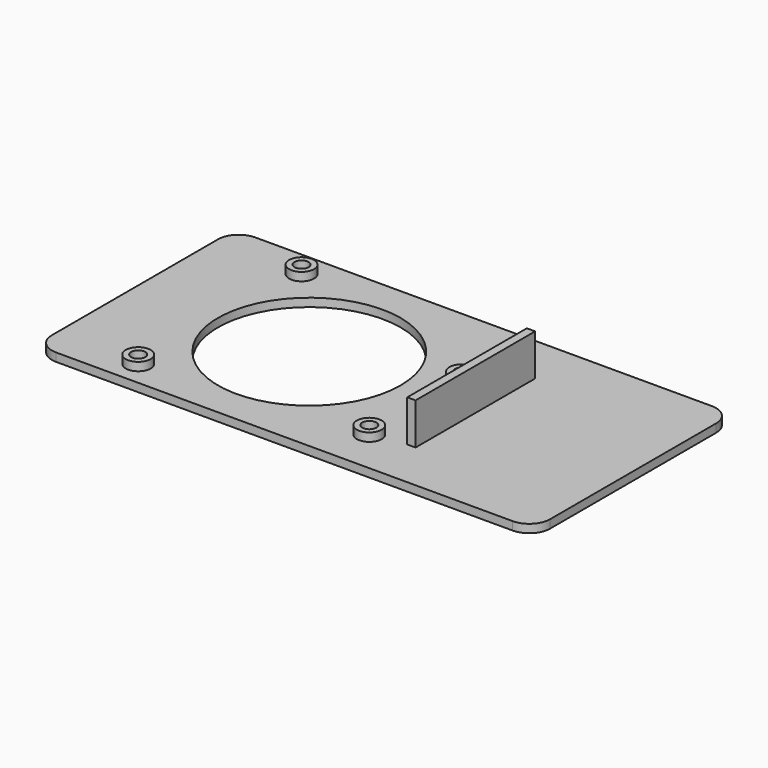
from build123d import *

# Parameters (mm, degrees)
PAD_DEPTH       = 2
SKETCH001_R     = 3
PAD001_DEPTH    = 2
SKETCH002_R     = 1.7
POCKET_DEPTH    = 5
SKETCH003_W     = 2
SKETCH003_H     = 36
PAD002_DEPTH    = 10
SKETCH004_R     = 22
POCKET001_DEPTH = 5


with BuildPart() as part:
    # Sketch → Pad (new body)
    with BuildSketch(Plane.XY):
        with BuildLine():
            Line((4.999993, 0), (115.000007, 0))
            ThreePointArc((115.000007, 0), (118.535542, 1.464474), (120, 5.000016))
            Line((120, 5.000016), (120, 54.999983))
            ThreePointArc((120, 54.999983), (118.535543, 58.535525), (115.000007, 60))
            Line((4.999993, 60), (115.000007, 60))
            ThreePointArc((4.999993, 60), (1.464457, 58.535525), (0, 54.999983))
            Line((0, 54.999983), (0, 5.000016))
            ThreePointArc((0, 5.000016), (1.464458, 1.464474), (4.999993, 0))
        make_face()
    extrude(amount=PAD_DEPTH)

    # Sketch001 → Pad001 (new body)
    with BuildSketch(Plane.XY.offset(2)):
        with Locations((20, 6)):
            Circle(SKETCH001_R)
        with Locations((71.9, 10.7)):
            Circle(SKETCH001_R)
        with Locations((71.9, 38.6)):
            Circle(SKETCH001_R)
        with Locations((21.1, 53.8)):
            Circle(SKETCH001_R)
    extrude(amount=PAD001_DEPTH)

    # Sketch002 → Pocket (cut)
    with BuildSketch(Plane.XY.offset(4)):
        with Locations((20, 6)):
            Circle(SKETCH002_R)
        with Locations((71.9, 10.7)):
            Circle(SKETCH002_R)
        with Locations((71.9, 38.6)):
            Circle(SKETCH002_R)
        with Locations((21.1, 53.8)):
            Circle(SKETCH002_R)
    extrude(amount=-POCKET_DEPTH, mode=Mode.SUBTRACT)

    # Sketch003 → Pad002 (new body)
    with BuildSketch(Plane.XY.offset(2)):
        with Locations((81, 30)):
            Rectangle(SKETCH003_W, SKETCH003_H)
    extrude(amount=PAD002_DEPTH)

    # Sketch004 → Pocket001 (cut)
    with BuildSketch(Plane.XY.offset(2)):
        with Locations((42, 30)):
            Circle(SKETCH004_R)
    extrude(amount=-POCKET001_DEPTH, mode=Mode.SUBTRACT)


solid = part.part
